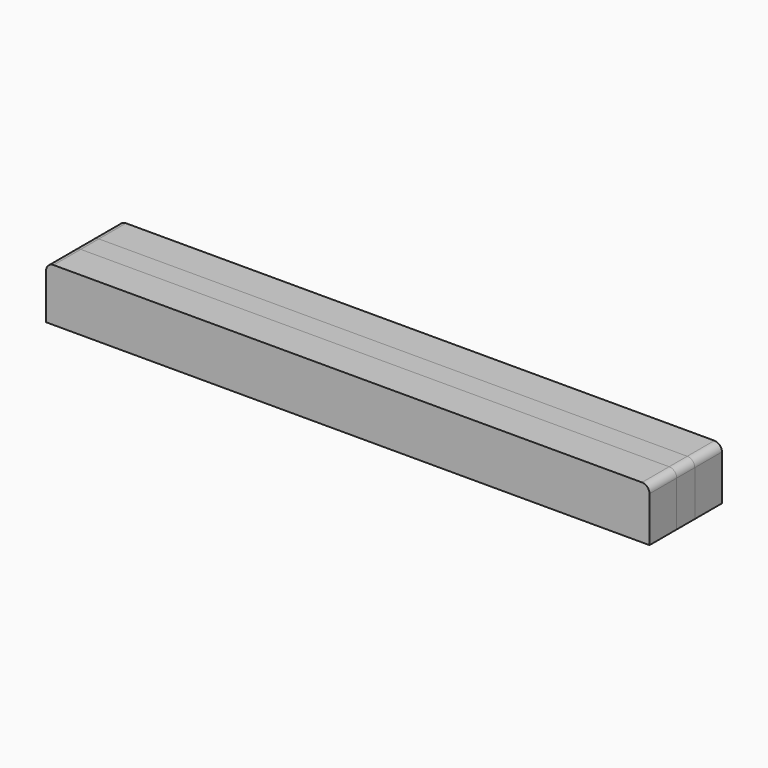
from build123d import *

# Parameters (mm, degrees)
F0_W          = 508
F0_H          = 28.575
F1_DEPTH      = 44.45
F2_W          = 508
F2_H          = 19.05
F3_DEPTH      = 44.45
F4_W          = 508
F4_H          = 28.575
F5_DEPTH      = 44.45
F7_DEPTH      = 61.9135
F7_DEPTH_BACK = 14.2885
F8_DEPTH      = 61.9135
F9_DEPTH      = 61.9135


with BuildPart() as f1:
    # F0 (on Top) → F1 (new body)
    with BuildSketch(Plane.XY):
        Rectangle(F0_W, F0_H)
    extrude(amount=F1_DEPTH)


with BuildPart() as f3:
    # F2 (on Top) → F3 (new body, through all)
    with BuildSketch(Plane.XY):
        with Locations((0, 23.8125)):
            Rectangle(F2_W, F2_H)
    extrude(amount=F3_DEPTH)


with BuildPart() as f5:
    # F4 (on Top) → F5 (new body, through all)
    with BuildSketch(Plane.XY):
        with Locations((0, 47.625)):
            Rectangle(F4_W, F4_H)
    extrude(amount=F5_DEPTH)


with BuildPart() as f7_tool:
    # F6 (on Front) → F7 (new body, two sides)
    with BuildSketch(Plane.XZ) as f7_sk:
        with BuildLine():
            ThreePointArc((247.65, 44.45), (252.1401280605, 42.5901280605), (254, 38.1))
            Line((254, 38.1), (254, 44.45))
            Line((254, 44.45), (247.65, 44.45))
        make_face()
        with BuildLine():
            Line((-254, 44.45), (-254, 38.1))
            ThreePointArc((-254, 38.1), (-252.1401280605, 42.5901280605), (-247.65, 44.45))
            Line((-247.65, 44.45), (-254, 44.45))
        make_face()
    extrude(amount=-F7_DEPTH)
    extrude(f7_sk.sketch, amount=F7_DEPTH_BACK)


with BuildPart() as f1_1:
    add(f1.part)

    # F7: cut by f7_tool
    add(f7_tool.part, mode=Mode.SUBTRACT)

    # F6 (on Front) → F8 (cut, through all)
    with BuildSketch(Plane.XZ):
        with BuildLine():
            ThreePointArc((247.65, 44.45), (252.1401280605, 42.5901280605), (254, 38.1))
            Line((254, 38.1), (254, 44.45))
            Line((254, 44.45), (247.65, 44.45))
        make_face()
        with BuildLine():
            Line((-254, 44.45), (-254, 38.1))
            ThreePointArc((-254, 38.1), (-252.1401280605, 42.5901280605), (-247.65, 44.45))
            Line((-247.65, 44.45), (-254, 44.45))
        make_face()
    extrude(amount=-F8_DEPTH, mode=Mode.SUBTRACT)

    # F6 (on Front) → F9 (cut, through all)
    with BuildSketch(Plane.XZ):
        with BuildLine():
            ThreePointArc((247.65, 44.45), (252.1401280605, 42.5901280605), (254, 38.1))
            Line((254, 38.1), (254, 44.45))
            Line((254, 44.45), (247.65, 44.45))
        make_face()
        with BuildLine():
            Line((-254, 44.45), (-254, 38.1))
            ThreePointArc((-254, 38.1), (-252.1401280605, 42.5901280605), (-247.65, 44.45))
            Line((-247.65, 44.45), (-254, 44.45))
        make_face()
    extrude(amount=-F9_DEPTH, mode=Mode.SUBTRACT)


with BuildPart() as f3_1:
    add(f3.part)

    # F7: cut by f7_tool
    add(f7_tool.part, mode=Mode.SUBTRACT)


with BuildPart() as f5_1:
    add(f5.part)

    # F7: cut by f7_tool
    add(f7_tool.part, mode=Mode.SUBTRACT)


solid = Compound([f1_1.part, f3_1.part, f5_1.part])
